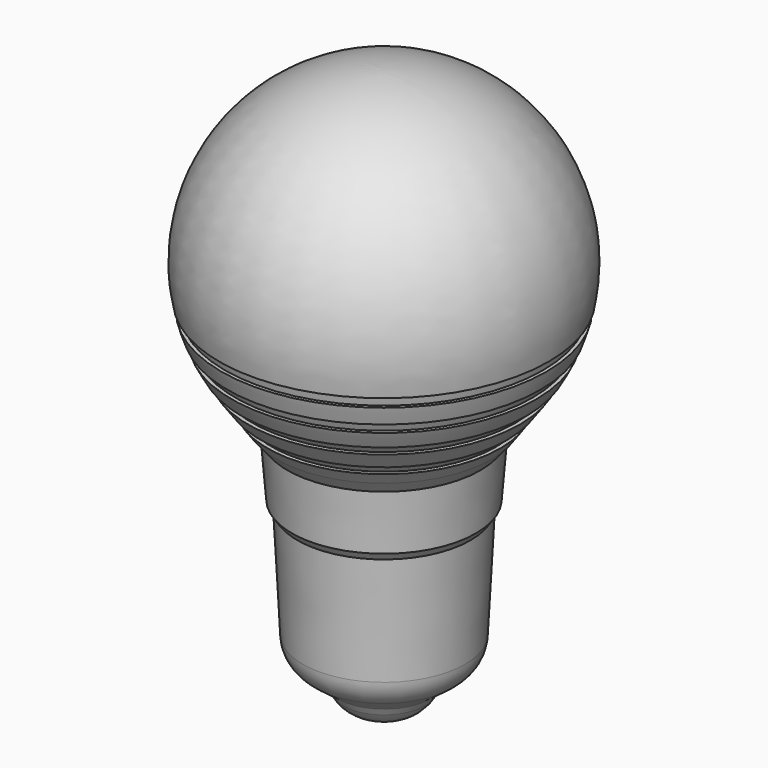
from build123d import *


with BuildPart() as f1:
    # F0 (on Front) → F1 (revolve)
    with BuildSketch(Plane.XZ):
        with BuildLine():
            Line((0, 82), (0, 0))
            Line((0, 0), (1.621348, 0))
            ThreePointArc((1.621348, 0), (4.129995, 0.674877), (5.96143, 2.517323))
            Line((5.96143, 2.517323), (6.553142, 3.551721))
            Line((6.553142, 3.551721), (9.801857, 5.980985))
            ThreePointArc((9.801857, 5.980985), (11.220354, 7.634206), (11.801262, 9.733686))
            Line((11.801262, 9.733686), (12.615576, 25.896059))
            Line((12.615576, 25.896059), (13.382415, 27.028697))
            Line((13.382415, 27.028697), (14.037257, 35.312757))
            Line((14.037257, 35.312757), (15.605096, 37.213091))
            Line((15.605096, 37.213091), (16.938078, 39.073914))
            Line((16.938078, 39.073914), (16.323029, 39.073914))
            Line((16.323029, 39.073914), (17.325905, 40.473914))
            Line((17.325905, 40.473914), (17.940954, 40.473914))
            Line((17.940954, 40.473914), (19.803112, 43.073459))
            Line((19.803112, 43.073459), (19.180408, 43.073914))
            ThreePointArc((19.180408, 43.073914), (19.68136, 43.765224), (20.157408, 44.473914))
            Line((20.157408, 44.473914), (20.750207, 44.473914))
            ThreePointArc((20.750207, 44.473914), (21.499869, 45.75242), (22.170853, 47.073914))
            Line((22.170853, 47.073914), (21.617048, 47.073914))
            ThreePointArc((21.617048, 47.073914), (21.938707, 47.76896), (22.238026, 48.473914))
            Line((22.238026, 48.473914), (22.776738, 48.473914))
            ThreePointArc((22.776738, 48.473914), (23.245867, 49.761804), (23.642238, 51.073914))
            Line((23.642238, 51.073914), (23.123699, 51.073914))
            ThreePointArc((23.123699, 51.073914), (23.306273, 51.77133), (23.467818, 52.473914))
            Line((23.467818, 52.473914), (23.978917, 52.473914))
            ThreePointArc((23.978917, 52.473914), (19.018269, 72.94524), (0, 82))
        make_face()
    revolve(axis=Axis((0, 0, 45.823732), (0, 0, 1)))


solid = f1.part
